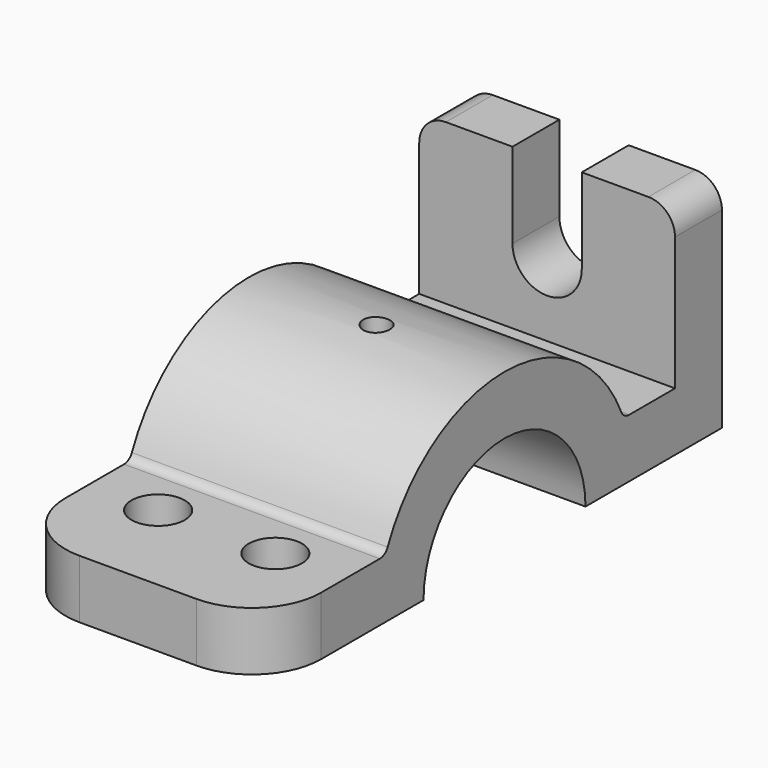
from build123d import *

# Parameters (mm, degrees)
F0_W     = 11
F0_H     = 30
F1_DEPTH = 24
F3_DEPTH = 11
F4_R     = 5
F4_R_2   = 2.5
F5_DEPTH = 41.001
F6_R     = 13
F7_R     = 5
F8_R     = 2


with BuildPart() as f1:
    # F0 (on Right) → F1 (new body, symmetric)
    with BuildSketch(Plane.YZ):
        with BuildLine():
            Line((-56, 0), (-30, 0))
            ThreePointArc((-30, 0), (-29.4730143031, 5.5983415304), (-27.9105714739, 11))
            Line((-27.9105714739, 11), (-56, 11))
            Line((-56, 11), (-56, 0))
        make_face()
        with BuildLine():
            Line((-30, 0), (-19, 0))
            ThreePointArc((-19, 0), (-18.1017503893, 5.7729223833), (-15.4919333848, 11))
            Line((-15.4919333848, 11), (-27.9105714739, 11))
            ThreePointArc((-27.9105714739, 11), (-29.4730143031, 5.5983415304), (-30, 0))
        make_face()
        with BuildLine():
            ThreePointArc((15.4919333848, 11), (18.1017503893, 5.7729223833), (19, 0))
            Line((19, 0), (30, 0))
            ThreePointArc((30, 0), (29.4730143031, 5.5983415304), (27.9105714739, 11))
            Line((27.9105714739, 11), (15.4919333848, 11))
        make_face()
        with BuildLine():
            ThreePointArc((-15.4919333848, 11), (0, 19), (15.4919333848, 11))
            Line((15.4919333848, 11), (27.9105714739, 11))
            ThreePointArc((27.9105714739, 11), (0, 30), (-27.9105714739, 11))
            Line((-27.9105714739, 11), (-15.4919333848, 11))
        make_face()
        with BuildLine():
            ThreePointArc((27.9105714739, 11), (29.4730143031, 5.5983415304), (30, 0))
            Line((30, 0), (51, 0))
            Line((51, 0), (51, 11))
            Line((51, 11), (40, 11))
            Line((40, 11), (27.9105714739, 11))
        make_face()
        with Locations((45.5, 26)):
            Rectangle(F0_W, F0_H)
    extrude(amount=F1_DEPTH, both=True)

    # F2 (on face) → F3 (cut, through all)
    with BuildSketch(Plane(origin=(0, 51, 0), x_dir=(-1, 0, 0), z_dir=(0, 1, 0))):
        with BuildLine():
            ThreePointArc((-6.5, 25), (0, 31.5), (6.5, 25))
            Line((6.5, 25), (6.5, 41))
            Line((6.5, 41), (-6.5, 41))
            Line((-6.5, 41), (-6.5, 25))
        make_face()
        with BuildLine():
            ThreePointArc((-6.5, 25), (0, 18.5), (6.5, 25))
            ThreePointArc((6.5, 25), (0, 31.5), (-6.5, 25))
        make_face()
    extrude(amount=-F3_DEPTH, mode=Mode.SUBTRACT)

    # F4 (on face) → F5 (cut, through all)
    with BuildSketch(Plane(origin=(0, 0, 0), x_dir=(1, 0, 0), z_dir=(0, 0, -1))):
        with Locations((11, 37.5)):
            Circle(F4_R)
        Circle(F4_R_2)
        with Locations((-11, 37.5)):
            Circle(F4_R)
    extrude(amount=-F5_DEPTH, mode=Mode.SUBTRACT)

    # F6
    f6_edges = [f1.edges().sort_by_distance(p)[0] for p in [
        (-24, -56, 5.5),
        (24, -56, 5.5),
    ]]
    fillet(f6_edges, radius=F6_R)

    # F7
    f7_edges = [f1.edges().sort_by_distance(p)[0] for p in [
        (-24, 45.5, 41),
        (24, 45.5, 41),
    ]]
    fillet(f7_edges, radius=F7_R)

    # F8
    f8_edges = [f1.edges().sort_by_distance(p)[0] for p in [
        (0, -27.910571, 11),
        (0, 27.910571, 11),
    ]]
    fillet(f8_edges, radius=F8_R)


solid = f1.part
